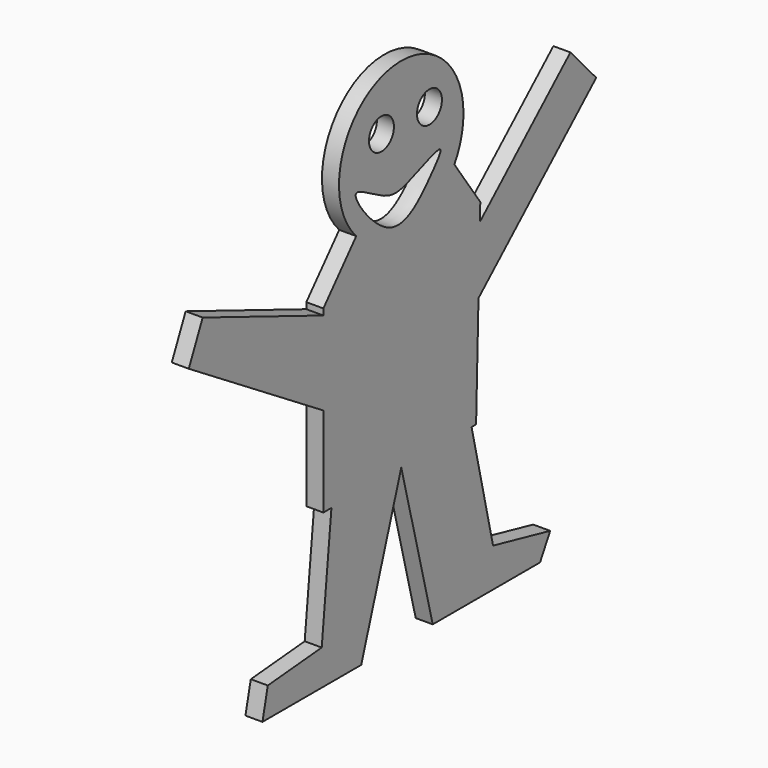
from build123d import *

# Parameters (mm, degrees)
F0_R     = 4.5807461666
F1_DEPTH = 5


with BuildPart() as f1:
    # F0 (on Right) → F1 (new body)
    with BuildSketch(Plane.YZ):
        Polygon((-34.6681401134, 0), (-34.6681401134, 24.5658417454), (-78.9729505777, 42.0339927077), (-84.0679854155, 30.864123255), align=None)
        with BuildLine():
            ThreePointArc((13.4277175006, 44.0469511481), (-3.6287113263, 33.2320263344), (-22.5966290731, 40.1676199935))
            Line((-22.5966290731, 40.1676199935), (-34.6681401134, 26.388078928))
            Line((-34.6681401134, 26.388078928), (-34.6681401134, 24.5658417454))
            Line((-34.6681401134, 24.5658417454), (-34.6681401134, 0))
            Line((-34.6681401134, 0), (-34.6681401134, -26.388078928))
            Line((-34.6681401134, -26.388078928), (-31.7037368685, -26.388078928))
            Line((-31.7037368685, -26.388078928), (-6.064720462, -26.388078928))
            Line((-6.064720462, -26.388078928), (19.730867818, -26.388078928))
            Line((19.730867818, -26.388078928), (21.398472267, -26.388078928))
            Line((21.398472267, -26.388078928), (22.27470465, 5.8991014957))
            Line((22.27470465, 5.8991014957), (22.8048125706, 25.4323787472))
            Line((22.8048125706, 25.4323787472), (22.9423311885, 30.4996286171))
            Line((22.9423311885, 30.4996286171), (13.4277175006, 44.0469511481))
        make_face()
        Polygon((56.0163809995, 55.7224714079), (22.8048125706, 25.4323787472), (22.27470465, 5.8991014957), (65.5010460578, 45.3230115535), align=None)
        Polygon((27.6307370514, -60.2585151792), (19.730867818, -26.388078928), (-6.064720462, -26.388078928), (5.4869563319, -71.624353528), (44.8754541576, -71.624353528), (48.5987402499, -64.9616196752), align=None)
        Polygon((-6.064720462, -26.388078928), (-31.7037368685, -26.388078928), (-35.2732762694, -61.042368412), (-55.0655052066, -62.806032598), (-57.0251345634, -71.4283809066), (-20.7720398903, -71.4283809066), align=None)
        with BuildLine():
            ThreePointArc((13.4277175006, 44.0469511481), (15.9198975215, 49.7666821609), (16.7718013439, 55.9473410249))
            ThreePointArc((16.7718013439, 55.9473410249), (-14.5748908513, 77.153901975), (-22.5966290731, 40.1676199935))
            ThreePointArc((-22.5966290731, 40.1676199935), (-3.6287113263, 33.2320263344), (13.4277175006, 44.0469511481))
        make_face()
        with Locations((-13.339035213, 62.8419443965)):
            Circle(F0_R, mode=Mode.SUBTRACT)
        with BuildLine():
            add(Edge.make_bspline(
                [(-12.6072922722, 46.544931829), (-9.0128031388, 44.9351226284), (-4.412702671, 45.5666658929), (11.5693769065, 52.762551564), (4.04092859, 43.7398052008), (-9.2131207397, 29.6946913752), (-29.3237043143, 57.4649397701), (-16.4981365756, 48.2874651141), (-12.6072922722, 46.544931829)],
                knots=[0, 0, 0, 0, 0.1480746148, 0.3138035161, 0.4355370979, 0.6302092462, 0.839717064, 1, 1, 1, 1], degree=3))
        make_face(mode=Mode.SUBTRACT)
        with Locations((4.272154998, 62.6462697983)):
            Circle(F0_R, mode=Mode.SUBTRACT)
    extrude(amount=F1_DEPTH)


solid = f1.part
